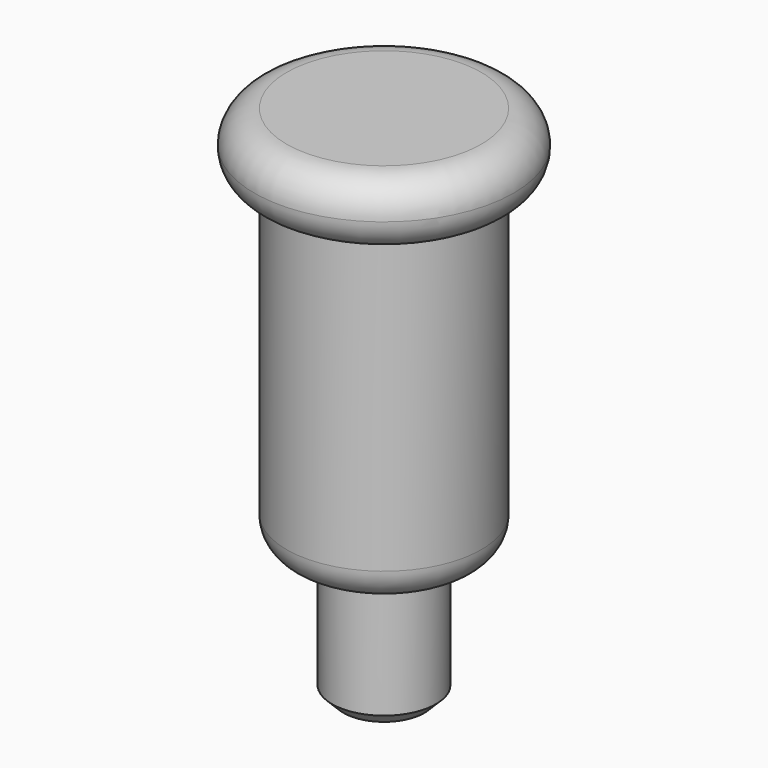
from build123d import *


with BuildPart() as f1:
    # F0 (on Front) → F1 (revolve)
    with BuildSketch(Plane.XZ):
        with BuildLine():
            Line((0, -0.25), (0, 0))
            Line((0, 0), (-1.5, 0))
            ThreePointArc((-1.5, 0), (-1.853553, -0.146447), (-2, -0.5))
            ThreePointArc((-2, -0.5), (-1.853553, -0.853553), (-1.5, -1))
            Line((-1.5, -1), (-1.5, -5.5))
            ThreePointArc((-1.5, -5.5), (-1.353553, -5.853553), (-1, -6))
            Line((-1, -6), (-0.8, -6))
            Line((-0.8, -6), (-0.8, -7.823223))
            Line((-0.8, -7.823223), (-0.623223, -8))
            Line((-0.623223, -8), (-0.6, -8))
            Line((-0.6, -8), (-0.26967, -8))
            Line((-0.26967, -8), (-0.55, -7.71967))
            Line((-0.55, -7.71967), (-0.55, -5.75))
            Line((-0.55, -5.75), (-1, -5.75))
            ThreePointArc((-1, -5.75), (-1.176777, -5.676777), (-1.25, -5.5))
            Line((-1.25, -5.5), (-1.25, -0.5))
            ThreePointArc((-1.25, -0.5), (-1.676777, -0.676777), (-1.5, -0.25))
            Line((-1.5, -0.25), (0, -0.25))
        make_face()
    revolve(axis=Axis((0, 0, -4), (0, 0, -1)))


solid = f1.part
